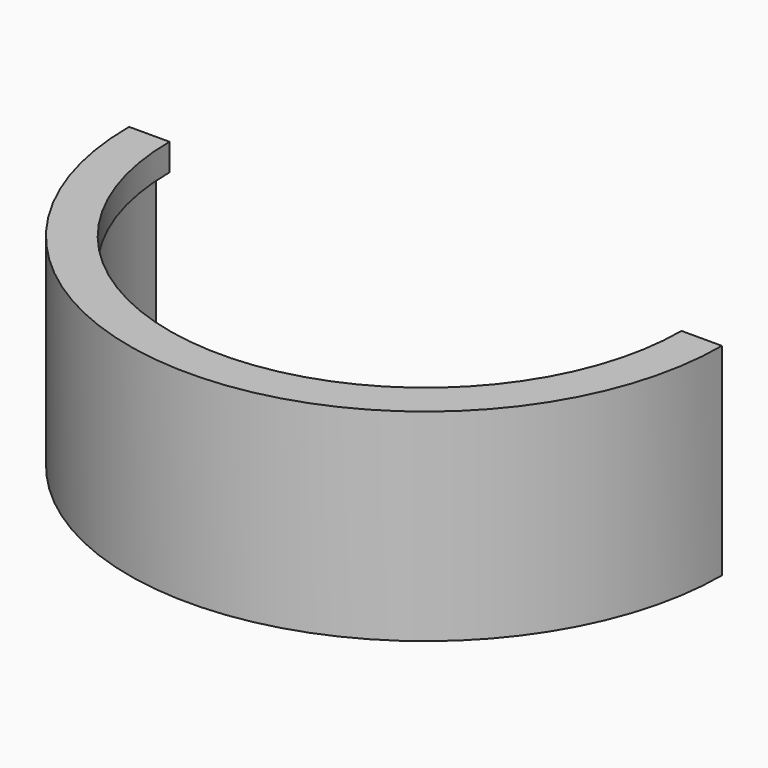
from build123d import *

# Parameters (mm, degrees)
F2_W     = 84.383212
F2_H     = 61.620441
F3_DEPTH = 25


with BuildPart() as f1:
    # F0 (on Front) → F1 (revolve)
    with BuildSketch(Plane.XZ):
        Polygon((8.576843, 13.019959), (6.576843, 13.019959), (5.576843, 13.019959), (5.576843, 11.019959), (6.576843, 11.019959), (6.576843, 0.019959), (5.793059, 0.019959), (5.793059, -1.980041), (6.576843, -1.980041), (8.576843, -1.980041), align=None)
    revolve(axis=Axis((-13.423157, 0, 4.628072), (0, 0, -1)))

    # F2 (on Front) → F3 (cut)
    with BuildSketch(Plane.XZ):
        with Locations((-10.576643, 1.379563)):
            Rectangle(F2_W, F2_H)
    extrude(amount=-F3_DEPTH, mode=Mode.SUBTRACT)


solid = f1.part
